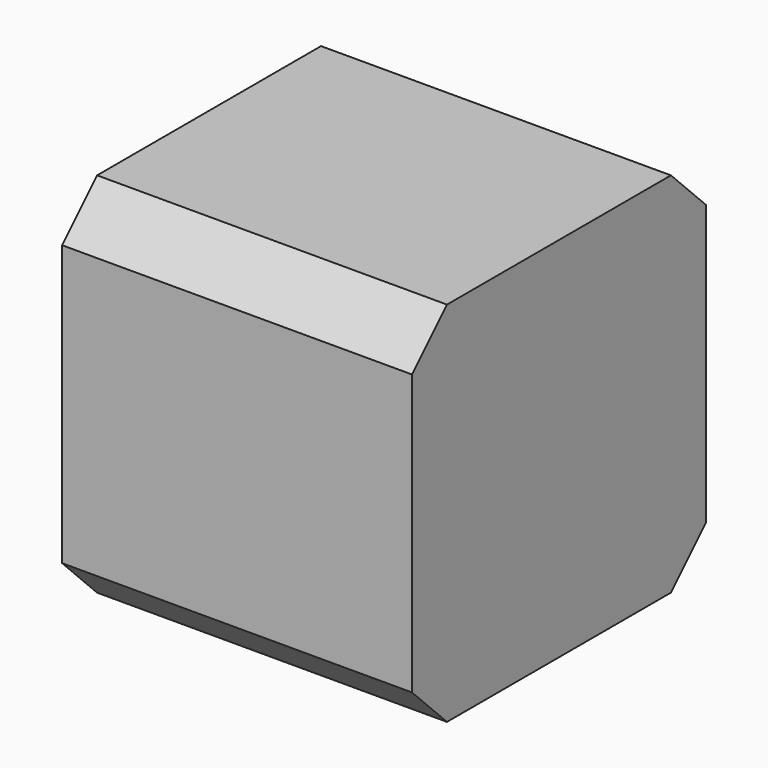
from build123d import *

# Parameters (mm, degrees)
F0_W     = 42
F0_H     = 42
F0_R     = 1.65
F0_R_2   = 11
F0_R_3   = 2.5
F1_DEPTH = 40
F2_DEPTH = 2
F3_DEPTH = 12
F4_DEPTH = 10
F5_SIZE  = 5


with BuildPart() as f1:
    # F0 (on Right) → F1 (new body)
    with BuildSketch(Plane.YZ):
        Rectangle(F0_W, F0_H)
        with Locations((-15.5, -15.5)):
            Circle(F0_R, mode=Mode.SUBTRACT)
        with Locations((15.5, -15.5)):
            Circle(F0_R, mode=Mode.SUBTRACT)
        with Locations((-15.5, 15.5)):
            Circle(F0_R, mode=Mode.SUBTRACT)
        Circle(F0_R_2, mode=Mode.SUBTRACT)
        with Locations((15.5, 15.5)):
            Circle(F0_R, mode=Mode.SUBTRACT)
        with Locations((15.5, -15.5)):
            Circle(F0_R)
        with Locations((-15.5, -15.5)):
            Circle(F0_R)
        with Locations((-15.5, 15.5)):
            Circle(F0_R)
        with Locations((15.5, 15.5)):
            Circle(F0_R)
        Circle(F0_R_2)
        Circle(F0_R_3, mode=Mode.SUBTRACT)
        Circle(F0_R_3)
    extrude(amount=F1_DEPTH)

    # F0 (on Right) → F2 (join)
    with BuildSketch(Plane.YZ):
        Circle(F0_R_2)
        Circle(F0_R_3, mode=Mode.SUBTRACT)
        Circle(F0_R_3)
    extrude(amount=-F2_DEPTH)

    # F0 (on Right) → F3 (join)
    with BuildSketch(Plane.YZ):
        Circle(F0_R_3)
    extrude(amount=-F3_DEPTH)

    # F0 (on Right) → F4 (cut)
    with BuildSketch(Plane.YZ):
        with Locations((15.5, 15.5)):
            Circle(F0_R)
        with Locations((15.5, -15.5)):
            Circle(F0_R)
        with Locations((-15.5, 15.5)):
            Circle(F0_R)
        with Locations((-15.5, -15.5)):
            Circle(F0_R)
    extrude(amount=F4_DEPTH, mode=Mode.SUBTRACT)

    # F5
    f5_edges = [f1.edges().sort_by_distance(p)[0] for p in [
        (20, -21, 21),
        (20, 21, 21),
        (20, 21, -21),
        (20, -21, -21),
    ]]
    chamfer(f5_edges, length=F5_SIZE)


solid = f1.part
